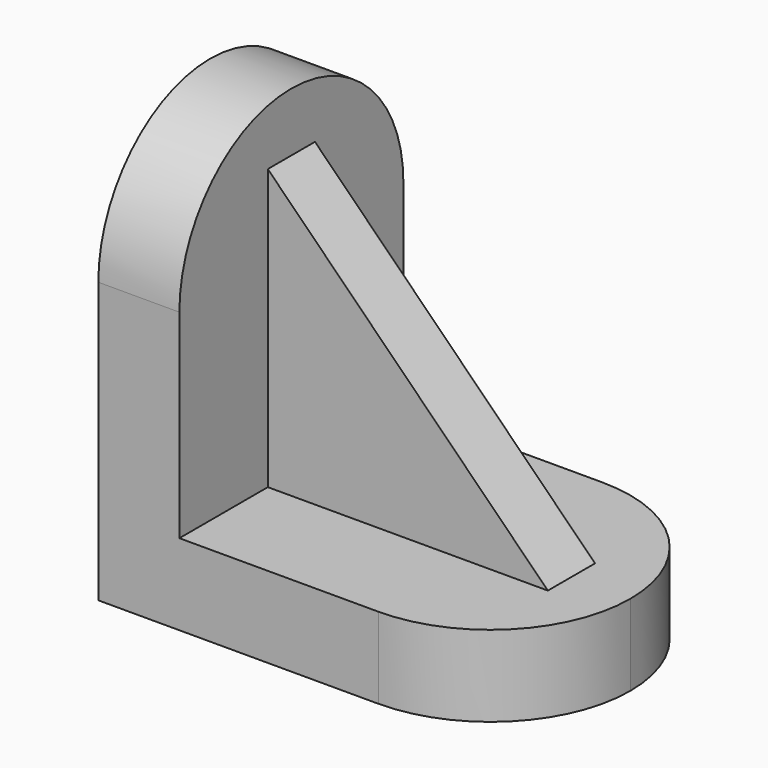
from build123d import *

# Parameters (mm, degrees)
F1_DEPTH = 110
F2_W     = 110
F2_H     = 380
F3_DEPTH = 270
F5_DEPTH = 110
F6_W     = 380
F6_H     = 40
F7_DEPTH = 380
F9_DEPTH = 230.001


with BuildPart() as f1:
    # F0 (on Top) → F1 (new body)
    with BuildSketch(Plane.XY):
        with BuildLine():
            Line((380, 0), (0, 0))
            Line((0, 0), (0, -380))
            Line((0, -380), (110, -380))
            Line((110, -380), (380, -380))
            ThreePointArc((380, -380), (190, -190), (380, 0))
        make_face()
        with BuildLine():
            Line((380, -380), (380, 0))
            ThreePointArc((380, 0), (190, -190), (380, -380))
        make_face()
        with BuildLine():
            ThreePointArc((570, -190), (514.3502884254, -55.6497115746), (380, 0))
            Line((380, 0), (380, -380))
            ThreePointArc((380, -380), (514.3502884254, -324.3502884254), (570, -190))
        make_face()
    extrude(amount=F1_DEPTH)

    # F2 (on face) → F3 (join)
    with BuildSketch(Plane.XY.offset(110)):
        with Locations((55, -190)):
            Rectangle(F2_W, F2_H)
    extrude(amount=F3_DEPTH)

    # F4 (on face) → F5 (join)
    with BuildSketch(Plane(origin=(0, 0, 0), x_dir=(0, -1, 0), z_dir=(-1, 0, 0))):
        with BuildLine():
            Line((0, 380), (380, 380))
            ThreePointArc((380, 380), (190, 570), (0, 380))
        make_face()
    extrude(amount=-F5_DEPTH)

    # F6 (on face) → F7 (join)
    with BuildSketch(Plane.XY.offset(110)):
        with Locations((300, -210)):
            Rectangle(F6_W, F6_H)
        with Locations((300, -170)):
            Rectangle(F6_W, F6_H)
    extrude(amount=F7_DEPTH)

    # F8 (on face) → F9 (cut, through all)
    with BuildSketch(Plane.XZ.offset(230)):
        Polygon((490, 490), (110, 490), (490, 110), align=None)
    extrude(amount=-F9_DEPTH, mode=Mode.SUBTRACT)


solid = f1.part
